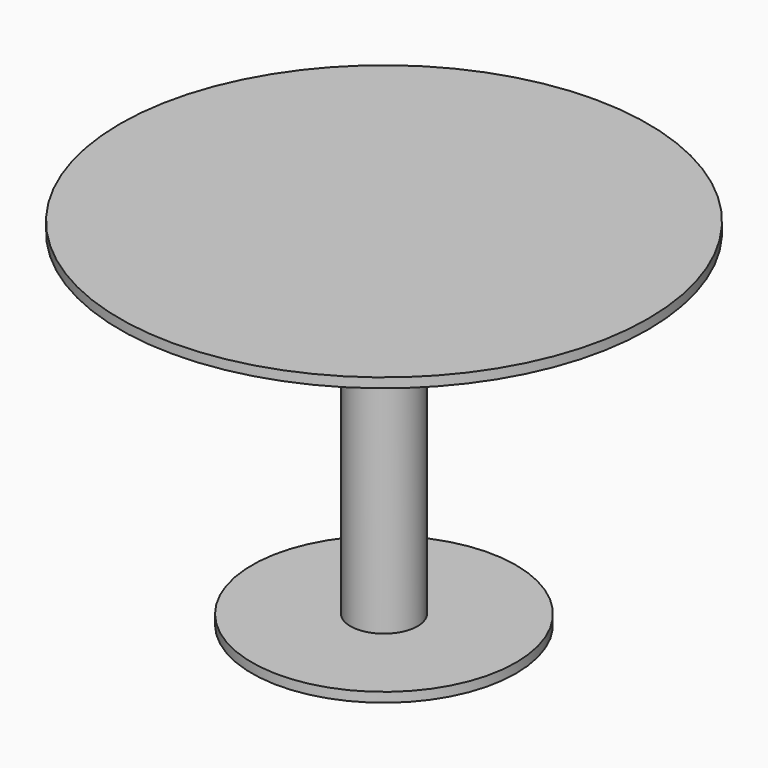
from build123d import *

# Parameters (mm, degrees)
F0_R     = 550
F1_DEPTH = 20
F2_R     = 70
F3_DEPTH = 700
F4_R     = 275
F5_DEPTH = 20


with BuildPart() as f1:
    # F0 (on Top) → F1 (new body)
    with BuildSketch(Plane.XY):
        Circle(F0_R)
    extrude(amount=F1_DEPTH)

    # F2 (on face) → F3 (join)
    with BuildSketch(Plane(origin=(0, 0, 0), x_dir=(1, 0, 0), z_dir=(0, 0, -1))):
        Circle(F2_R)
    extrude(amount=F3_DEPTH)

    # F4 (on face) → F5 (join)
    with BuildSketch(Plane(origin=(0, 0, -700), x_dir=(1, 0, 0), z_dir=(0, 0, -1))):
        Circle(F4_R)
    extrude(amount=F5_DEPTH)


solid = f1.part
